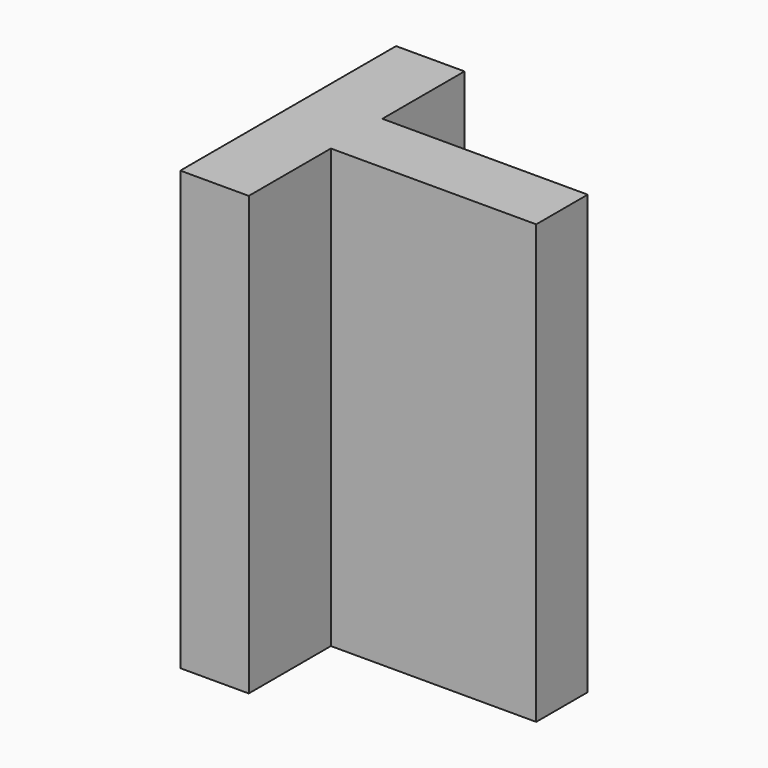
from build123d import *

# Parameters (mm, degrees)
SKETCH005_W  = 5
SKETCH005_H  = 19.7
PAD003_DEPTH = 32
SKETCH_W     = 15
SKETCH_H     = 4.7
PAD_DEPTH    = 32


with BuildPart() as part:
    # Sketch005 → Pad003 (new body)
    with BuildSketch(Plane.XY):
        Rectangle(SKETCH005_W, SKETCH005_H)
    extrude(amount=PAD003_DEPTH)

    # Sketch → Pad (join)
    with BuildSketch(Plane.XY):
        with Locations((10, 0)):
            Rectangle(SKETCH_W, SKETCH_H)
    extrude(amount=PAD_DEPTH)


solid = part.part
